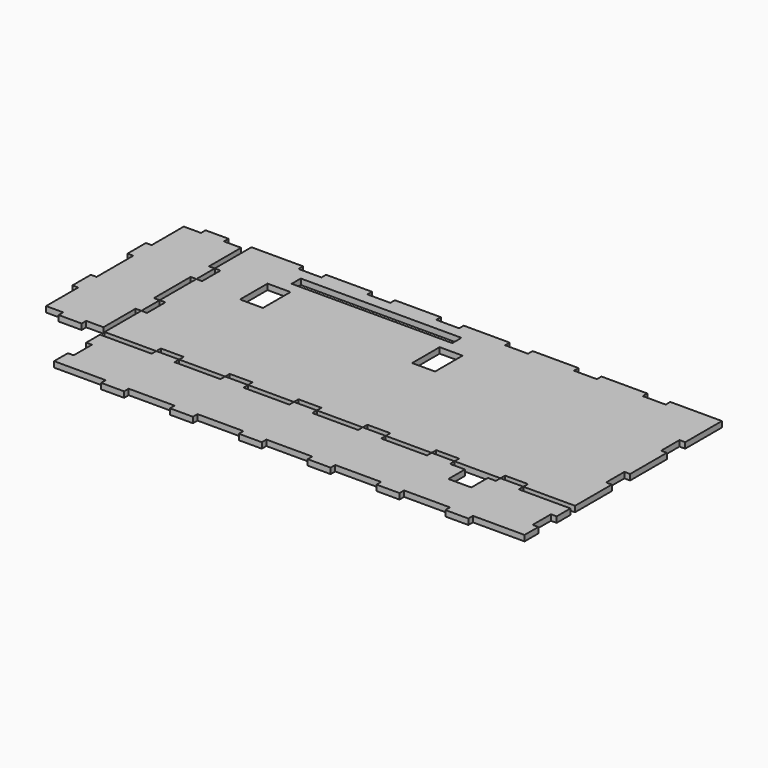
from build123d import *

# Parameters (mm, degrees)
F1_DEPTH = 3.175
F3_DEPTH = 3.175
F5_DEPTH = 3.175
F6_W     = 12.7
F6_H     = 19.05
F6_W_2   = 88.9
F6_H_2   = 6.35
F6_H_3   = 11.43
F7_DEPTH = 3.176


with BuildPart() as f1:
    # F0 (on Top) → F1 (new body)
    with BuildSketch(Plane.XY):
        Polygon((0, 25.4), (0, 0), (28.575, 0), (28.575, 3.175), (41.275, 3.175), (41.275, 0), (66.675, 0), (66.675, 3.175), (79.375, 3.175), (79.375, 0), (104.775, 0), (104.775, 3.175), (117.475, 3.175), (117.475, 0), (142.875, 0), (142.875, 3.175), (155.575, 3.175), (155.575, 0), (180.975, 0), (180.975, 3.175), (193.675, 3.175), (193.675, 0), (219.075, 0), (219.075, 3.175), (231.775, 3.175), (231.775, 0), (260.35, 0), (260.35, 25.4), (257.175, 25.4), (257.175, 38.1), (260.35, 38.1), (260.35, 63.5), (257.175, 63.5), (257.175, 76.2), (260.35, 76.2), (260.35, 101.6), (231.775, 101.6), (231.775, 98.425), (219.075, 98.425), (219.075, 101.6), (193.675, 101.6), (193.675, 98.425), (180.975, 98.425), (180.975, 101.6), (155.575, 101.6), (155.575, 98.425), (142.875, 98.425), (142.875, 101.6), (117.475, 101.6), (117.475, 98.425), (104.775, 98.425), (104.775, 101.6), (79.375, 101.6), (79.375, 98.425), (66.675, 98.425), (66.675, 101.6), (41.275, 101.6), (41.275, 98.425), (28.575, 98.425), (28.575, 101.6), (0, 101.6), (0, 76.2), (3.175, 76.2), (3.175, 63.5), (0, 63.5), (0, 38.1), (3.175, 38.1), (3.175, 25.4), align=None)
    extrude(amount=F1_DEPTH)


with BuildPart() as f3:
    # F2 (on Top) → F3 (new body)
    with BuildSketch(Plane.XY):
        Polygon((41.275, 0), (28.575, 0), (28.575, -3.175), (0, -3.175), (0, -12.7), (3.175, -12.7), (3.175, -25.4), (0, -25.4), (0, -34.925), (28.575, -34.925), (28.575, -38.1), (41.275, -38.1), (41.275, -34.925), (66.675, -34.925), (66.675, -38.1), (79.375, -38.1), (79.375, -34.925), (104.775, -34.925), (104.775, -38.1), (117.475, -38.1), (117.475, -34.925), (142.875, -34.925), (142.875, -38.1), (155.575, -38.1), (155.575, -34.925), (180.975, -34.925), (180.975, -38.1), (193.675, -38.1), (193.675, -34.925), (219.075, -34.925), (219.075, -38.1), (231.775, -38.1), (231.775, -34.925), (260.35, -34.925), (260.35, -25.4), (257.175, -25.4), (257.175, -12.7), (260.35, -12.7), (260.35, -3.175), (231.775, -3.175), (231.775, 0), (219.075, 0), (219.075, -3.175), (193.675, -3.175), (193.675, 0), (180.975, 0), (180.975, -3.175), (155.575, -3.175), (155.575, 0), (142.875, 0), (142.875, -3.175), (117.475, -3.175), (117.475, 0), (104.775, 0), (104.775, -3.175), (79.375, -3.175), (79.375, 0), (66.675, 0), (66.675, -3.175), (41.275, -3.175), align=None)
    extrude(amount=F3_DEPTH)


with BuildPart() as f5:
    # F4 (on Top) → F5 (new body)
    with BuildSketch(Plane.XY):
        Polygon((-3.175, 25.4), (0, 25.4), (0, 38.1), (-3.175, 38.1), (-3.175, 63.5), (0, 63.5), (0, 76.2), (-3.175, 76.2), (-3.175, 98.425), (-12.7, 98.425), (-12.7, 101.6), (-25.4, 101.6), (-25.4, 98.425), (-34.925, 98.425), (-34.925, 76.2), (-38.1, 76.2), (-38.1, 63.5), (-34.925, 63.5), (-34.925, 38.1), (-38.1, 38.1), (-38.1, 25.4), (-34.925, 25.4), (-34.925, 3.175), (-25.4, 3.175), (-25.4, 0), (-12.7, 0), (-12.7, 3.175), (-3.175, 3.175), align=None)
    extrude(amount=F5_DEPTH)


with BuildPart() as f7_tool:
    # F6 (on face) → F7 (new body, through all)
    with BuildSketch(Plane.XY.offset(3.175)):
        with Locations((33.02, 69.85)):
            Rectangle(F6_W, F6_H)
        with Locations((79.375, 88.9)):
            Rectangle(F6_W_2, F6_H_2)
        with Locations((128.27, 69.85)):
            Rectangle(F6_W, F6_H)
        with Locations((208.28, -8.89)):
            Rectangle(F6_W, F6_H_3)
    extrude(amount=-F7_DEPTH)


with BuildPart() as f1_1:
    add(f1.part)

    # F7: cut by f7_tool
    add(f7_tool.part, mode=Mode.SUBTRACT)


with BuildPart() as f3_1:
    add(f3.part)

    # F7: cut by f7_tool
    add(f7_tool.part, mode=Mode.SUBTRACT)


solid = Compound([f5.part, f1_1.part, f3_1.part])
